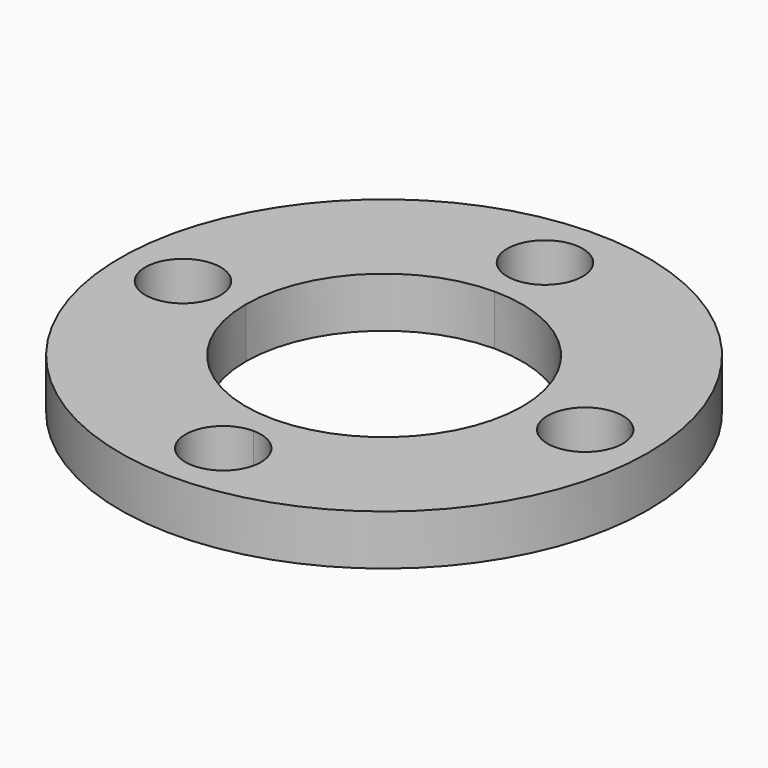
from build123d import *

# Parameters (mm, degrees)
F0_R     = 10.5
F0_R_2   = 1.5
F1_DEPTH = 2


with BuildPart() as f1:
    # F0 (on Top) → F1 (new body)
    with BuildSketch(Plane.XY):
        Circle(F0_R)
        with BuildLine():
            ThreePointArc((1.5, -8), (-1.06066, -9.06066), (0, -6.5))
            ThreePointArc((0, -6.5), (1.06066, -6.93934), (1.5, -8))
        make_face(mode=Mode.SUBTRACT)
        with Locations((-8, 0)):
            Circle(F0_R_2, mode=Mode.SUBTRACT)
        with BuildLine():
            ThreePointArc((0, 5.5), (3.889087, 3.889087), (5.5, 0))
            ThreePointArc((5.5, 0), (3.889087, -3.889087), (0, -5.5))
            ThreePointArc((0, -5.5), (-3.889087, -3.889087), (-5.5, 0))
            ThreePointArc((-5.5, 0), (-3.889087, 3.889087), (0, 5.5))
        make_face(mode=Mode.SUBTRACT)
        with BuildLine():
            ThreePointArc((9.5, 0), (8, -1.5), (6.5, 0))
            ThreePointArc((6.5, 0), (8, 1.5), (9.5, 0))
        make_face(mode=Mode.SUBTRACT)
        with BuildLine():
            ThreePointArc((1.5, 8), (1.06066, 6.93934), (0, 6.5))
            ThreePointArc((0, 6.5), (-1.06066, 9.06066), (1.5, 8))
        make_face(mode=Mode.SUBTRACT)
    extrude(amount=F1_DEPTH)


solid = f1.part
